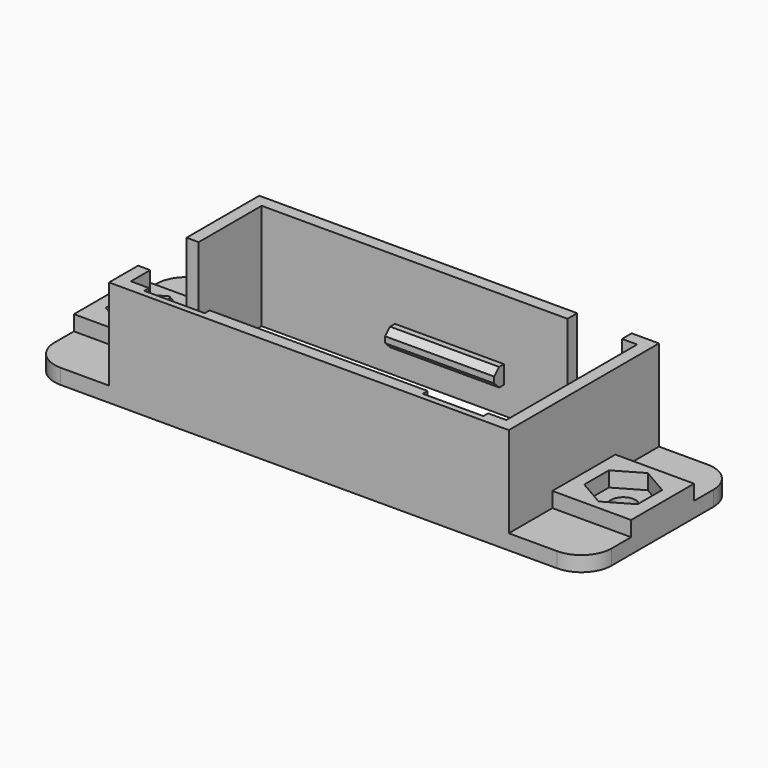
from build123d import *

# Parameters (mm, degrees)
F0_W      = 92
F0_H      = 31
F1_DEPTH  = 2.5
F2_W      = 66
F2_H      = 31
F2_W_2    = 62
F2_H_2    = 27
F3_DEPTH  = 15
F3_FACE_W = 62
F3_FACE_H = 27
F4_DEPTH  = 25
F5_W      = 13
F5_H      = 13
F6_DEPTH  = 2.5
F7_R      = 2.032
F8_DEPTH  = 5.001
F10_DEPTH = 2.5
F11_W     = 14
F11_H     = 2
F12_DEPTH = 15
F14_DEPTH = 2
F15_W     = 18
F15_H     = 3
F16_DEPTH = 2
F17_SIZE  = 1
F18_R     = 5
F19_W     = 10
F19_H     = 13.5
F20_DEPTH = 1
F21_W     = 9
F21_H     = 11
F22_DEPTH = 2


with BuildPart() as f1:
    # F0 (on Top) → F1 (new body)
    with BuildSketch(Plane.XY):
        with Locations((46, 15.5)):
            Rectangle(F0_W, F0_H)
    extrude(amount=F1_DEPTH)

    # F2 (on face) → F3 (join)
    with BuildSketch(Plane.XY.offset(2.5)):
        with Locations((46, 15.5)):
            Rectangle(F2_W, F2_H)
        with Locations((46, 15.5)):
            Rectangle(F2_W_2, F2_H_2, mode=Mode.SUBTRACT)
    extrude(amount=F3_DEPTH)

    # F3_face (on face) → F4 (cut)
    with BuildSketch(Plane(origin=(46, 15.5, 2.5), x_dir=(1, 0, 0), z_dir=(0, 0, 1))):
        Rectangle(F3_FACE_W, F3_FACE_H)
    extrude(amount=-F4_DEPTH, mode=Mode.SUBTRACT)

    # F5 (on face) → F6 (join)
    with BuildSketch(Plane.XY.offset(2.5)):
        with Locations((85.5, 15.5)):
            Rectangle(F5_W, F5_H)
        with Locations((6.5, 15.5)):
            Rectangle(F5_W, F5_H)
    extrude(amount=F6_DEPTH)

    # F7 (on face) → F8 (cut, through all)
    with BuildSketch(Plane.XY.offset(5)):
        with Locations((85.5, 15.5)):
            Circle(F7_R)
        with Locations((6.5, 15.5)):
            Circle(F7_R)
    extrude(amount=-F8_DEPTH, mode=Mode.SUBTRACT)

    # F9 (on face) → F10 (cut, through all)
    with BuildSketch(Plane.XY.offset(5)):
        Polygon((2.1, 18.040341), (2.1, 12.959659), (6.5, 10.419318), (10.9, 12.959659), (10.9, 18.040341), (6.5, 20.580682), align=None)
        Polygon((81.1, 12.959659), (85.5, 10.419318), (89.9, 12.959659), (89.9, 18.040341), (85.5, 20.580682), (81.1, 18.040341), align=None)
    extrude(amount=-F10_DEPTH, mode=Mode.SUBTRACT)

    # F11 (on Top) → F12 (join)
    with BuildSketch(Plane.XY):
        with Locations((47, 3)):
            Rectangle(F11_W, F11_H)
    extrude(amount=F12_DEPTH)

    # F13 (on face) → F14 (cut, through all)
    with BuildSketch(Plane(origin=(13, 0, 0), x_dir=(0, -1, 0), z_dir=(-1, 0, 0))):
        Polygon((-16, 17.5), (-16, 5), (-9, 5), (-6, 5), (-6, 17.5), align=None)
    extrude(amount=-F14_DEPTH, mode=Mode.SUBTRACT)

    # F15 (on face) → F16 (join)
    with BuildSketch(Plane.XZ.offset(-29)):
        with Locations((46, 6)):
            Rectangle(F15_W, F15_H)
    extrude(amount=F16_DEPTH)

    # F17
    f17_edges = [f1.edges().sort_by_distance(p)[0] for p in [
        (46, 27, 7.5),
        (46, 27, 4.5),
    ]]
    chamfer(f17_edges, length=F17_SIZE)

    # F18
    f18_edges = [f1.edges().sort_by_distance(p)[0] for p in [
        (0, 0, 1.25),
        (0, 31, 1.25),
        (92, 0, 1.25),
        (92, 31, 1.25),
    ]]
    fillet(f18_edges, radius=F18_R)

    # F19 (on face) → F20 (cut)
    with BuildSketch(Plane(origin=(0, 2, 0), x_dir=(-1, 0, 0), z_dir=(0, 1, 0))):
        with Locations((-69, 10.75)):
            Rectangle(F19_W, F19_H)
        with Locations((-23, 10.75)):
            Rectangle(F19_W, F19_H)
    extrude(amount=-F20_DEPTH, mode=Mode.SUBTRACT)

    # F21 (on face) → F22 (cut, through all)
    with BuildSketch(Plane(origin=(0, 31, 0), x_dir=(-1, 0, 0), z_dir=(0, 1, 0))):
        with Locations((-70, 12)):
            Rectangle(F21_W, F21_H)
    extrude(amount=-F22_DEPTH, mode=Mode.SUBTRACT)


solid = f1.part
